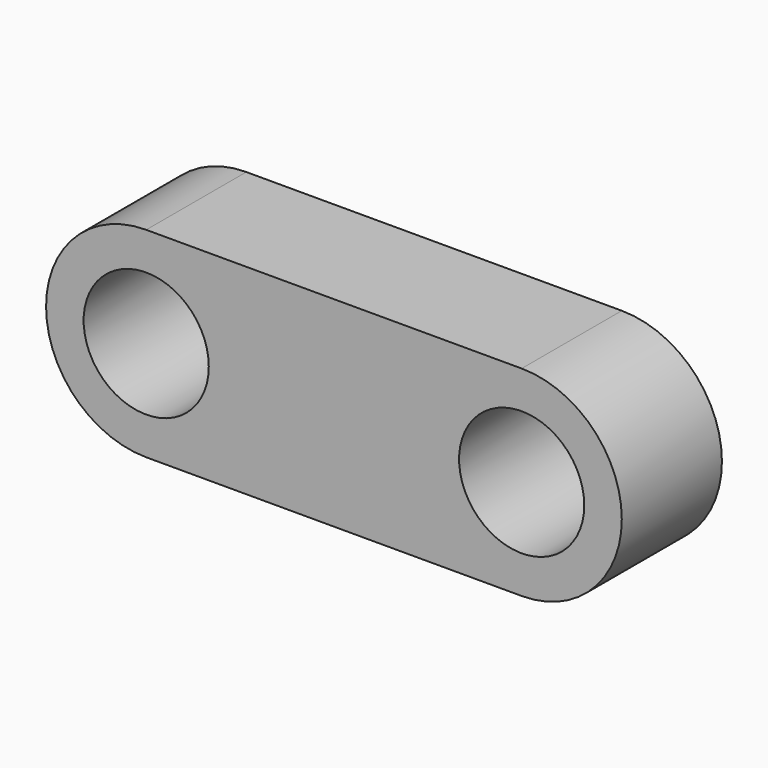
from build123d import *

# Parameters (mm, degrees)
F0_R     = 2.5
F1_DEPTH = 5


with BuildPart() as f1:
    # F0 (on Front) → F1 (new body)
    with BuildSketch(Plane.XZ):
        with BuildLine():
            Line((0, 4), (-7.5, 4))
            ThreePointArc((-7.5, 4), (-11.5, 0), (-7.5, -4))
            Line((-7.5, -4), (0, -4))
            Line((0, -4), (0, 4))
        make_face()
        with Locations((-7.5, 0)):
            Circle(F0_R, mode=Mode.SUBTRACT)
        with BuildLine():
            Line((7.5, 4), (0, 4))
            Line((0, 4), (0, -4))
            Line((0, -4), (7.5, -4))
            ThreePointArc((7.5, -4), (11.5, 0), (7.5, 4))
        make_face()
        with Locations((7.5, 0)):
            Circle(F0_R, mode=Mode.SUBTRACT)
    extrude(amount=F1_DEPTH)


solid = f1.part
